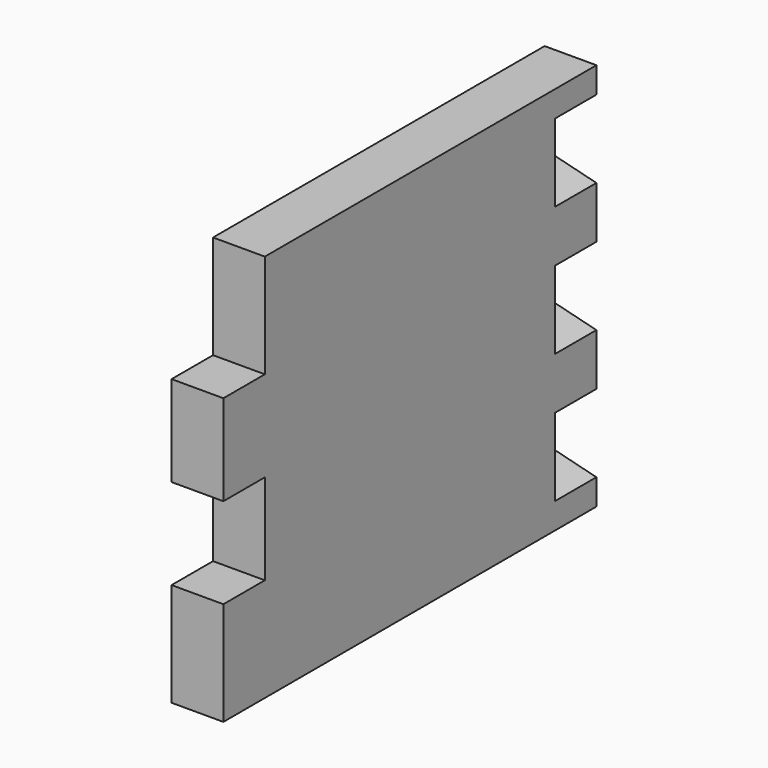
from build123d import *

# Parameters (mm, degrees)
F0_W     = 20
F0_H     = 150
F0_H_2   = 35
F0_H_3   = 40
F1_DEPTH = 20
F3_DEPTH = 20


with BuildPart() as f1:
    # F0 (on Right) → F1 (new body)
    with BuildSketch(Plane.YZ):
        Polygon((36.49421, 91.595055), (-103.50579, 91.595055), (-103.50579, 51.595055), (-103.50579, 16.595055), (-103.50579, -18.404945), (-103.50579, -58.404945), (36.49421, -58.404945), align=None)
        with Locations((46.49421, 16.595055)):
            Rectangle(F0_W, F0_H)
        with Locations((-113.50579, 34.095055)):
            Rectangle(F0_W, F0_H_2)
        with Locations((-113.50579, -38.404945)):
            Rectangle(F0_W, F0_H_3)
    extrude(amount=F1_DEPTH)

    # F2 (on face) → F3 (cut)
    with BuildSketch(Plane(origin=(0, 56.49421, 0), x_dir=(-1, 0, 0), z_dir=(0, 1, 0))):
        Polygon((-20, 51.595055), (0, 56.595055), (0, 76.595055), (-20, 81.595055), align=None)
        Polygon((0, 6.595055), (0, 26.595055), (-20, 31.595055), (-20, 1.595055), align=None)
        Polygon((0, -43.404945), (0, -23.404945), (-20, -18.404945), (-20, -48.404945), align=None)
    extrude(amount=-F3_DEPTH, mode=Mode.SUBTRACT)


solid = f1.part
